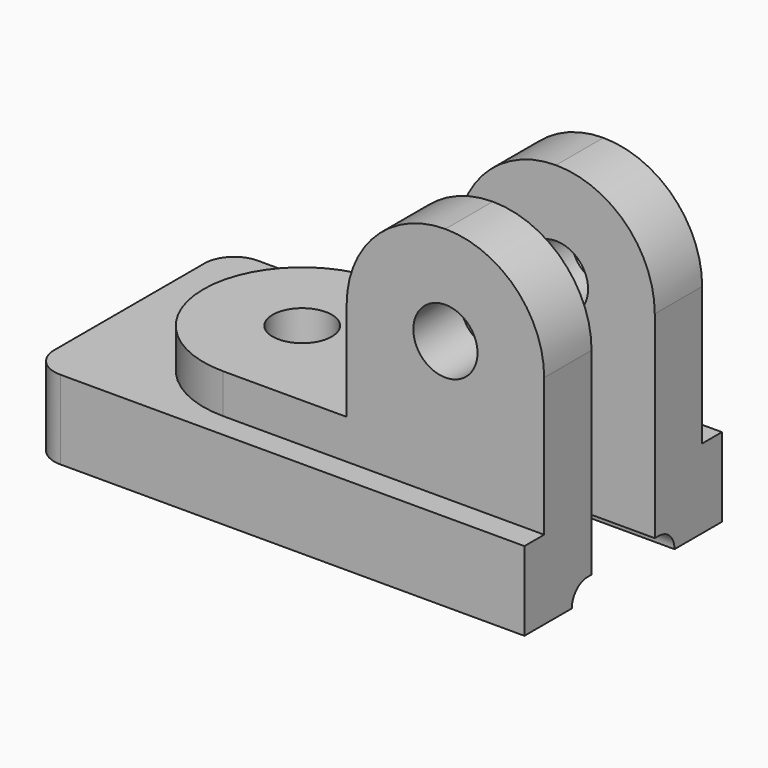
from build123d import *

# Parameters (mm, degrees)
F0_W     = 40
F0_H     = 12
F0_R     = 6
F1_DEPTH = 16
F2_DEPTH = 24
F3_DEPTH = 64
F5_DEPTH = 100.001
F6_R     = 6.5
F7_DEPTH = 45.001


with BuildPart() as f1:
    # F0 (on Top) → F1 (new body)
    with BuildSketch(Plane.XY):
        with BuildLine():
            Line((50, 20), (50, 25))
            Line((50, 25), (-44, 25))
            ThreePointArc((-44, 25), (-48.2426406871, 23.2426406871), (-50, 19))
            Line((-50, 19), (-50, -19))
            ThreePointArc((-50, -19), (-48.2426406871, -23.2426406871), (-44, -25))
            Line((-44, -25), (50, -25))
            Line((50, -25), (50, -20))
            Line((50, -20), (10, -20))
            Line((10, -20), (-15, -20))
            ThreePointArc((-15, -20), (-35, 0), (-15, 20))
            Line((-15, 20), (10, 20))
            Line((10, 20), (50, 20))
        make_face()
        with Locations((30, 14)):
            Rectangle(F0_W, F0_H)
        with BuildLine():
            Line((10, 8), (10, 20))
            Line((10, 20), (-15, 20))
            ThreePointArc((-15, 20), (-35, 0), (-15, -20))
            Line((-15, -20), (10, -20))
            Line((10, -20), (10, -8))
            Line((10, -8), (5, -8))
            Line((5, -8), (5, 8))
            Line((5, 8), (10, 8))
        make_face()
        with Locations((-15, 0)):
            Circle(F0_R, mode=Mode.SUBTRACT)
        with Locations((30, -14)):
            Rectangle(F0_W, F0_H)
    extrude(amount=F1_DEPTH)

    # F0 (on Top) → F2 (join)
    with BuildSketch(Plane.XY):
        with BuildLine():
            Line((10, 8), (10, 20))
            Line((10, 20), (-15, 20))
            ThreePointArc((-15, 20), (-35, 0), (-15, -20))
            Line((-15, -20), (10, -20))
            Line((10, -20), (10, -8))
            Line((10, -8), (5, -8))
            Line((5, -8), (5, 8))
            Line((5, 8), (10, 8))
        make_face()
        with Locations((-15, 0)):
            Circle(F0_R, mode=Mode.SUBTRACT)
        with Locations((30, -14)):
            Rectangle(F0_W, F0_H)
        with Locations((30, 14)):
            Rectangle(F0_W, F0_H)
    extrude(amount=F2_DEPTH)

    # F0 (on Top) → F3 (join)
    with BuildSketch(Plane.XY):
        with Locations((30, -14)):
            Rectangle(F0_W, F0_H)
        with Locations((30, 14)):
            Rectangle(F0_W, F0_H)
    extrude(amount=F3_DEPTH)

    # F4 (on face) → F5 (cut, through all)
    with BuildSketch(Plane(origin=(-50, 0, 0), x_dir=(0, -1, 0), z_dir=(-1, 0, 0))):
        with BuildLine():
            Line((-13, 0), (13, 0))
            ThreePointArc((13, 0), (11.8284271247, 2.8284271247), (9, 4))
            Line((9, 4), (-9, 4))
            ThreePointArc((-9, 4), (-11.8284271247, 2.8284271247), (-13, 0))
        make_face()
    extrude(amount=-F5_DEPTH, mode=Mode.SUBTRACT)

    # F6 (on face) → F7 (cut, through all)
    with BuildSketch(Plane.XZ.offset(20)):
        with Locations((30, 44)):
            Circle(F6_R)
        with BuildLine():
            Line((10, 64), (10, 44))
            ThreePointArc((10, 44), (15.8578643763, 58.1421356237), (30, 64))
            Line((30, 64), (10, 64))
        make_face()
        with BuildLine():
            Line((50, 64), (30, 64))
            ThreePointArc((30, 64), (44.1421356237, 58.1421356237), (50, 44))
            Line((50, 44), (50, 64))
        make_face()
    extrude(amount=-F7_DEPTH, mode=Mode.SUBTRACT)


solid = f1.part
